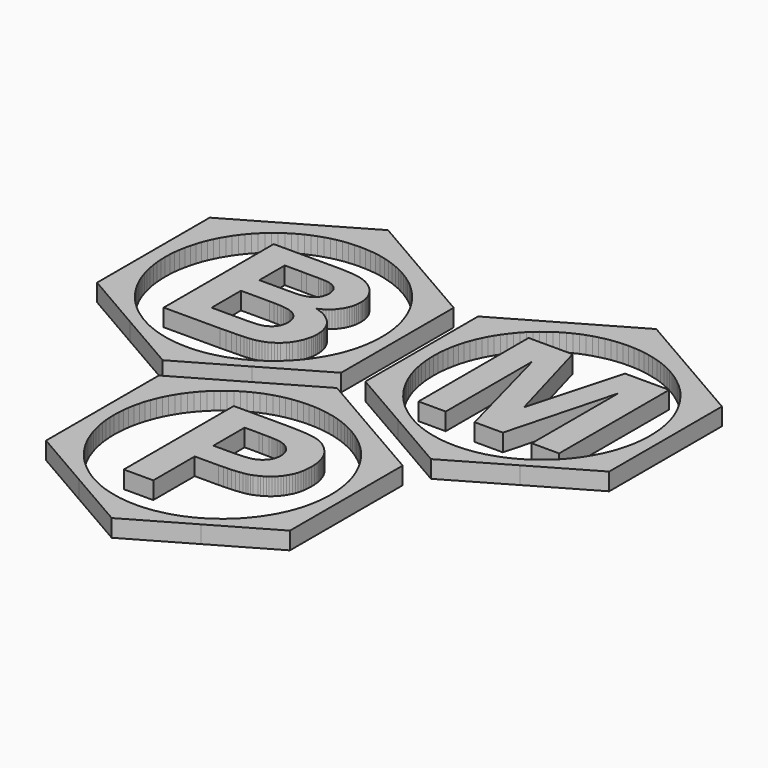
from build123d import *

# Parameters (mm, degrees)
F1_DEPTH = 5


with BuildPart() as f1:
    # F0 (on Top) → F1 (new body)
    with BuildSketch(Plane.XY):
        Polygon((56.125838, 64.001045), (38.57652, 74.114889), (21.027202, 64.001045), (3.477883, 53.887201), (3.477883, 33.619537), (3.477883, 13.351873), (21.027202, 3.238029), (38.57652, -6.915791), (56.125838, 3.238029), (73.635181, 13.351873), (73.635181, 33.619537), (73.635181, 53.887201), align=None)
        Polygon((37.177372, 63.801167), (38.776398, 63.841142), (40.375425, 63.801167), (41.974452, 63.68124), (43.533503, 63.481361), (45.052578, 63.201532), (46.571654, 62.841751), (48.050753, 62.441994), (49.489877, 61.962286), (50.889026, 61.402627), (52.288174, 60.763016), (53.607371, 60.083429), (54.926568, 59.323892), (56.165814, 58.524378), (57.40506, 57.644914), (58.564354, 56.725473), (59.723648, 55.766057), (60.802992, 54.72669), (61.842359, 53.647347), (62.801775, 52.488053), (63.721215, 51.328758), (64.60068, 50.089512), (65.400193, 48.850267), (66.159731, 47.53107), (66.839317, 46.211873), (67.478928, 44.812724), (68.038587, 43.413576), (68.518296, 41.974452), (68.918052, 40.495352), (69.277833, 38.976277), (69.557663, 37.457201), (69.757541, 35.89815), (69.877468, 34.299123), (69.917444, 32.700097), (69.877468, 31.10107), (69.757541, 29.502043), (69.557663, 27.942992), (69.277833, 26.423917), (68.918052, 24.904841), (68.518296, 23.425742), (68.038587, 21.986618), (67.478928, 20.587469), (66.839317, 19.188321), (66.159731, 17.869124), (65.400193, 16.549927), (64.60068, 15.270705), (63.721215, 14.071435), (62.801775, 12.872165), (61.842359, 11.752846), (60.802992, 10.673503), (59.723648, 9.634136), (58.564354, 8.67472), (57.40506, 7.75528), (56.165814, 6.875815), (54.926568, 6.076302), (53.607371, 5.316764), (52.288174, 4.637178), (50.889026, 3.997567), (49.489877, 3.437907), (48.050753, 2.958199), (46.571654, 2.518467), (45.052578, 2.198662), (43.533503, 1.918832), (41.974452, 1.718954), (40.375425, 1.599027), (38.776398, 1.559051), (37.177372, 1.599027), (35.578345, 1.718954), (34.019294, 1.918832), (32.500218, 2.198662), (30.981143, 2.518467), (29.502043, 2.958199), (28.062919, 3.437907), (26.663771, 3.997567), (25.264622, 4.637178), (23.945425, 5.316764), (22.626228, 6.076302), (21.347007, 6.875815), (20.147737, 7.75528), (18.948467, 8.67472), (17.829148, 9.634136), (16.749805, 10.673503), (15.710438, 11.752846), (14.751022, 12.872165), (13.831581, 14.071435), (12.952117, 15.270705), (12.152603, 16.549927), (11.393065, 17.869124), (10.713479, 19.188321), (10.073868, 20.587469), (9.514209, 21.986618), (9.034501, 23.425742), (8.594769, 24.904841), (8.274963, 26.423917), (7.995134, 27.942992), (7.795255, 29.502043), (7.675328, 31.10107), (7.635353, 32.700097), (7.675328, 34.299123), (7.795255, 35.89815), (7.995134, 37.457201), (8.274963, 38.976277), (8.594769, 40.495352), (9.034501, 41.974452), (9.514209, 43.413576), (10.073868, 44.812724), (10.713479, 46.211873), (11.393065, 47.53107), (12.152603, 48.850267), (12.952117, 50.089512), (13.831581, 51.328758), (14.751022, 52.488053), (15.710438, 53.647347), (16.749805, 54.72669), (17.829148, 55.766057), (18.948467, 56.725473), (20.147737, 57.644914), (21.347007, 58.524378), (22.626228, 59.323892), (23.945425, 60.083429), (25.264622, 60.763016), (26.663771, 61.402627), (28.062919, 61.962286), (29.502043, 62.441994), (30.981143, 62.841751), (32.500218, 63.201532), (34.019294, 63.481361), (35.578345, 63.68124), align=None, mode=Mode.SUBTRACT)
        Polygon((-20.987226, 63.881118), (-38.536544, 74.034938), (-56.085863, 63.881118), (-73.635181, 53.767274), (-73.635181, 33.49961), (-73.635181, 13.271922), (-56.085863, 3.118102), (-38.536544, -6.995742), (-20.987226, 3.118102), (-3.437907, 13.271922), (-3.437907, 33.49961), (-3.437907, 53.767274), align=None)
        Polygon((-39.935693, 63.68124), (-38.336666, 63.721215), (-36.737639, 63.68124), (-35.138612, 63.561313), (-33.579561, 63.40141), (-32.060486, 63.12158), (-30.541411, 62.761799), (-29.062311, 62.322067), (-27.623187, 61.842359), (-26.224038, 61.2827), (-24.82489, 60.683065), (-23.505693, 59.963502), (-22.186496, 59.24394), (-20.907275, 58.404451), (-19.708004, 57.564962), (-18.508734, 56.645522), (-17.389416, 55.64613), (-16.310073, 54.606763), (-15.270705, 53.52742), (-14.311289, 52.408101), (-13.391849, 51.248807), (-12.512384, 50.009561), (-11.712871, 48.73034), (-10.953333, 47.451118), (-10.273747, 46.091946), (-9.634136, 44.732773), (-9.074477, 43.293649), (-8.594769, 41.854525), (-8.155036, 40.375425), (-7.835231, 38.85635), (-7.555401, 37.337274), (-7.355523, 35.778223), (-7.235596, 34.219172), (-7.19562, 32.58017), (-7.235596, 30.981143), (-7.355523, 29.422092), (-7.555401, 27.863041), (-7.835231, 26.30399), (-8.155036, 24.82489), (-8.594769, 23.34579), (-9.074477, 21.906666), (-9.634136, 20.467542), (-10.273747, 19.108369), (-10.953333, 17.749197), (-11.712871, 16.469975), (-12.512384, 15.190754), (-13.391849, 13.951508), (-14.311289, 12.792214), (-15.270705, 11.672895), (-16.310073, 10.593552), (-17.389416, 9.554185), (-18.508734, 8.554793), (-19.708004, 7.635353), (-20.907275, 6.795864), (-22.186496, 5.956375), (-23.505693, 5.236813), (-24.82489, 4.517251), (-26.224038, 3.917615), (-27.623187, 3.357956), (-29.062311, 2.838272), (-30.541411, 2.438516), (-32.060486, 2.078735), (-33.579561, 1.798905), (-35.138612, 1.599027), (-36.737639, 1.4791), (-38.336666, 1.439124), (-39.935693, 1.4791), (-41.534719, 1.599027), (-43.09377, 1.798905), (-44.612846, 2.078735), (-46.131921, 2.438516), (-47.611021, 2.838272), (-49.050145, 3.357956), (-50.449293, 3.917615), (-51.848442, 4.517251), (-53.167639, 5.236813), (-54.486836, 5.956375), (-55.726082, 6.795864), (-56.965327, 7.635353), (-58.124622, 8.554793), (-59.283916, 9.554185), (-60.363259, 10.593552), (-61.402627, 11.672895), (-62.362043, 12.792214), (-63.281483, 13.951508), (-64.160948, 15.190754), (-64.960461, 16.469975), (-65.719999, 17.749197), (-66.399585, 19.108369), (-67.039196, 20.467542), (-67.598855, 21.906666), (-68.078563, 23.34579), (-68.47832, 24.82489), (-68.838101, 26.30399), (-69.117931, 27.863041), (-69.317809, 29.422092), (-69.437736, 30.981143), (-69.477712, 32.58017), (-69.437736, 34.219172), (-69.317809, 35.778223), (-69.117931, 37.337274), (-68.838101, 38.85635), (-68.47832, 40.375425), (-68.078563, 41.854525), (-67.598855, 43.293649), (-67.039196, 44.732773), (-66.399585, 46.091946), (-65.719999, 47.451118), (-64.960461, 48.73034), (-64.160948, 50.009561), (-63.281483, 51.248807), (-62.362043, 52.408101), (-61.402627, 53.52742), (-60.363259, 54.606763), (-59.283916, 55.64613), (-58.124622, 56.645522), (-56.965327, 57.564962), (-55.726082, 58.404451), (-54.486836, 59.24394), (-53.167639, 59.963502), (-51.848442, 60.683065), (-50.449293, 61.2827), (-49.050145, 61.842359), (-47.611021, 62.322067), (-46.131921, 62.761799), (-44.612846, 63.12158), (-43.09377, 63.40141), (-41.534719, 63.561313), align=None, mode=Mode.SUBTRACT)
        Polygon((18.029026, -3.238029), (0.479708, 6.915791), (-17.06961, -3.238029), (-34.578953, -13.351873), (-34.578953, -33.619537), (-34.578953, -53.887201), (-17.06961, -64.001045), (0.479708, -74.114889), (18.029026, -64.001045), (35.578345, -53.887201), (35.578345, -33.619537), (35.578345, -13.351873), align=None)
        Polygon((-0.91944, -3.437907), (0.679586, -3.397932), (2.278613, -3.437907), (3.87764, -3.557834), (5.436691, -3.757713), (6.955766, -4.037543), (8.474842, -4.357348), (9.953941, -4.79708), (11.393065, -5.276788), (12.792214, -5.836448), (14.191362, -6.476058), (15.550535, -7.155645), (16.829756, -7.915182), (18.108978, -8.714696), (19.308248, -9.59416), (20.507518, -10.513601), (21.626837, -11.473017), (22.70618, -12.512384), (23.745547, -13.591727), (24.704963, -14.711046), (25.624403, -15.910316), (26.503868, -17.109586), (27.303381, -18.388807), (28.062919, -19.708004), (28.742506, -21.027202), (29.382116, -22.42635), (29.941776, -23.825498), (30.421484, -25.264622), (30.861216, -26.743722), (31.181021, -28.262798), (31.460851, -29.781873), (31.660729, -31.340924), (31.780656, -32.939951), (31.820632, -34.538977), (31.780656, -36.138004), (31.660729, -37.697055), (31.460851, -39.256106), (31.181021, -40.815157), (30.861216, -42.294257), (30.421484, -43.773357), (29.941776, -45.252457), (29.382116, -46.651605), (28.742506, -48.050753), (28.062919, -49.36995), (27.303381, -50.689147), (26.503868, -51.928393), (25.624403, -53.167639), (24.704963, -54.326933), (23.745547, -55.486228), (22.70618, -56.565571), (21.626837, -57.564962), (20.507518, -58.564354), (19.308248, -59.483794), (18.108978, -60.363259), (16.829756, -61.162773), (15.550535, -61.92231), (14.191362, -62.601897), (12.792214, -63.241507), (11.393065, -63.801167), (9.953941, -64.280875), (8.474842, -64.680631), (6.955766, -65.040412), (5.436691, -65.320242), (3.87764, -65.52012), (2.278613, -65.640047), (0.679586, -65.680023), (-0.91944, -65.640047), (-2.478491, -65.52012), (-4.037543, -65.320242), (-5.596594, -65.040412), (-7.075693, -64.680631), (-8.554793, -64.280875), (-10.033893, -63.801167), (-11.433041, -63.241507), (-12.792214, -62.601897), (-14.151387, -61.92231), (-15.470584, -61.162773), (-16.709829, -60.363259), (-17.949075, -59.483794), (-19.108369, -58.564354), (-20.227688, -57.564962), (-21.347007, -56.565571), (-22.346399, -55.486228), (-23.34579, -54.326933), (-24.265231, -53.167639), (-25.144695, -51.928393), (-25.944209, -50.689147), (-26.703746, -49.36995), (-27.383333, -48.050753), (-28.022943, -46.651605), (-28.542627, -45.252457), (-29.062311, -43.773357), (-29.462068, -42.294257), (-29.821849, -40.815157), (-30.101678, -39.256106), (-30.301557, -37.697055), (-30.421484, -36.138004), (-30.461459, -34.538977), (-30.421484, -32.939951), (-30.301557, -31.340924), (-30.101678, -29.781873), (-29.821849, -28.262798), (-29.462068, -26.743722), (-29.062311, -25.264622), (-28.542627, -23.825498), (-28.022943, -22.42635), (-27.383333, -21.027202), (-26.703746, -19.708004), (-25.944209, -18.388807), (-25.144695, -17.109586), (-24.265231, -15.910316), (-23.34579, -14.711046), (-22.346399, -13.591727), (-21.347007, -12.512384), (-20.227688, -11.473017), (-19.108369, -10.513601), (-17.949075, -9.59416), (-16.709829, -8.714696), (-15.470584, -7.915182), (-14.151387, -7.155645), (-12.792214, -6.476058), (-11.433041, -5.836448), (-10.033893, -5.276788), (-8.554793, -4.79708), (-7.075693, -4.357348), (-5.596594, -4.037543), (-4.037543, -3.757713), (-2.478491, -3.557834), align=None, mode=Mode.SUBTRACT)
        Polygon((-37.65708, 52.687931), (-54.366909, 52.687931), (-54.366909, 13.151995), (-40.135571, 13.151995), (-38.176763, 13.151995), (-36.45781, 13.191971), (-34.898758, 13.231946), (-33.539586, 13.231946), (-32.340316, 13.271922), (-31.340924, 13.311898), (-30.541411, 13.351873), (-29.941776, 13.431825), (-29.102287, 13.511776), (-28.302773, 13.671679), (-27.543235, 13.871557), (-26.823673, 14.071435), (-26.144087, 14.311289), (-25.464501, 14.591119), (-24.82489, 14.9509), (-24.265231, 15.310681), (-23.705571, 15.710438), (-23.145912, 16.110194), (-22.666204, 16.589902), (-22.186496, 17.06961), (-21.746764, 17.589294), (-21.347007, 18.148953), (-20.987226, 18.748588), (-20.627445, 19.348223), (-20.30764, 20.02781), (-20.02781, 20.667421), (-19.827931, 21.307031), (-19.628053, 21.946642), (-19.46815, 22.626228), (-19.388199, 23.265839), (-19.308248, 23.945425), (-19.308248, 24.625012), (-19.348223, 25.464501), (-19.428175, 26.264014), (-19.588077, 27.063527), (-19.827931, 27.823065), (-20.107761, 28.542627), (-20.467542, 29.262189), (-20.867299, 29.941776), (-21.347007, 30.581386), (-21.906666, 31.181021), (-22.506301, 31.740681), (-23.145912, 32.260364), (-23.865474, 32.740072), (-24.625012, 33.179805), (-25.424525, 33.539586), (-26.30399, 33.859391), (-27.22343, 34.179196), (-26.583819, 34.459026), (-25.944209, 34.818807), (-25.344574, 35.178588), (-24.82489, 35.61832), (-24.305206, 36.058053), (-23.785523, 36.537761), (-23.34579, 37.09742), (-22.946034, 37.65708), (-22.546277, 38.216739), (-22.226472, 38.816374), (-21.986618, 39.455985), (-21.746764, 40.095595), (-21.586861, 40.735206), (-21.466934, 41.374817), (-21.386983, 42.054403), (-21.347007, 42.733989), (-21.386983, 43.3736), (-21.426958, 43.973235), (-21.546885, 44.612846), (-21.666812, 45.172505), (-21.866691, 45.732165), (-22.066569, 46.291824), (-22.346399, 46.851483), (-22.626228, 47.371167), (-22.986009, 47.850875), (-23.305815, 48.330583), (-23.705571, 48.810291), (-24.065352, 49.210048), (-24.505085, 49.609804), (-24.944817, 50.009561), (-25.384549, 50.329366), (-25.864257, 50.689147), (-26.343965, 50.968977), (-26.863649, 51.248807), (-27.383333, 51.488661), (-27.903016, 51.688539), (-28.462676, 51.888417), (-29.022335, 52.04832), (-29.62197, 52.208223), (-30.221605, 52.288174), (-30.861216, 52.408101), (-31.580778, 52.488053), (-32.420267, 52.528028), (-33.299732, 52.60798), (-34.259148, 52.647955), (-35.298515, 52.687931), (-36.417834, 52.687931), align=None)
        Polygon((-45.932043, 19.827931), (-45.932043, 30.381508), (-39.096204, 30.381508), (-37.697055, 30.381508), (-36.45781, 30.341532), (-35.338491, 30.301557), (-34.339099, 30.261581), (-33.459634, 30.18163), (-32.700097, 30.061703), (-32.100462, 29.941776), (-31.580778, 29.821849), (-31.181021, 29.661946), (-30.781265, 29.502043), (-30.421484, 29.302165), (-30.061703, 29.102287), (-29.741897, 28.862433), (-29.462068, 28.582603), (-29.182238, 28.302773), (-28.942384, 28.022943), (-28.742506, 27.703138), (-28.542627, 27.343357), (-28.382725, 27.023552), (-28.262798, 26.623795), (-28.182846, 26.264014), (-28.102895, 25.864257), (-28.062919, 25.424525), (-28.022943, 24.984793), (-28.062919, 24.465109), (-28.102895, 23.985401), (-28.182846, 23.545669), (-28.342749, 23.105936), (-28.502652, 22.70618), (-28.70253, 22.306423), (-28.942384, 21.946642), (-29.222214, 21.626837), (-29.542019, 21.347007), (-29.861824, 21.067177), (-30.221605, 20.827323), (-30.581386, 20.627445), (-30.981143, 20.427567), (-31.3809, 20.267664), (-31.820632, 20.147737), (-32.30034, 20.067785), (-33.099853, 19.947858), (-34.339099, 19.867907), (-36.018077, 19.827931), (-38.096812, 19.827931), align=None, mode=Mode.SUBTRACT)
        Polygon((-45.932043, 36.977493), (-45.932043, 46.131921), (-41.055011, 46.131921), (-39.655863, 46.091946), (-38.376642, 46.091946), (-37.257323, 46.091946), (-36.257931, 46.091946), (-35.458418, 46.05197), (-34.738856, 46.05197), (-34.219172, 46.011994), (-33.819415, 45.972019), (-33.339707, 45.892067), (-32.859999, 45.812116), (-32.380291, 45.652213), (-31.980535, 45.532286), (-31.620754, 45.332408), (-31.260973, 45.092554), (-30.941167, 44.8527), (-30.661338, 44.612846), (-30.381508, 44.293041), (-30.18163, 43.973235), (-29.981751, 43.65343), (-29.861824, 43.293649), (-29.741897, 42.893892), (-29.661946, 42.494135), (-29.581995, 42.054403), (-29.581995, 41.614671), (-29.62197, 41.134963), (-29.661946, 40.69523), (-29.741897, 40.295474), (-29.9018, 39.895717), (-30.061703, 39.49596), (-30.261581, 39.136179), (-30.541411, 38.816374), (-30.82124, 38.536544), (-31.141046, 38.256715), (-31.500827, 37.976885), (-31.900583, 37.777007), (-32.30034, 37.577128), (-32.740072, 37.417226), (-33.21978, 37.297299), (-33.699488, 37.177372), (-34.219172, 37.09742), (-34.578953, 37.057445), (-35.058661, 37.057445), (-35.658296, 37.017469), (-36.377858, 37.017469), (-37.177372, 36.977493), (-38.136788, 36.977493), (-39.216131, 36.977493), (-40.375425, 36.977493), align=None, mode=Mode.SUBTRACT)
        Polygon((-12.152603, -14.431216), (-12.152603, -53.967152), (-3.677761, -53.967152), (-3.677761, -39.056228), (1.798905, -39.056228), (3.198053, -39.056228), (4.517251, -39.016252), (5.756496, -38.976277), (6.875815, -38.936301), (7.955158, -38.85635), (8.914574, -38.736423), (9.794039, -38.616496), (10.593552, -38.496569), (11.153211, -38.376642), (11.712871, -38.216739), (12.232555, -38.016861), (12.792214, -37.777007), (13.351873, -37.537153), (13.871557, -37.257323), (14.431216, -36.977493), (14.9509, -36.617712), (15.510559, -36.257931), (15.990267, -35.858174), (16.469975, -35.418442), (16.949683, -34.938734), (17.389416, -34.41905), (17.789172, -33.899367), (18.148953, -33.339707), (18.508734, -32.700097), (18.868515, -32.100462), (19.148345, -31.420875), (19.388199, -30.701313), (19.588077, -29.941776), (19.74798, -29.182238), (19.827931, -28.342749), (19.907883, -27.50326), (19.947858, -26.583819), (19.907883, -25.464501), (19.787956, -24.345182), (19.708004, -23.825498), (19.588077, -23.305815), (19.46815, -22.786131), (19.308248, -22.306423), (19.148345, -21.826715), (18.988442, -21.386983), (18.788564, -20.94725), (18.54871, -20.507518), (18.348832, -20.067785), (18.069002, -19.668029), (17.789172, -19.268272), (17.509343, -18.908491), (16.869732, -18.188929), (16.230121, -17.549318), (15.510559, -16.949683), (14.790997, -16.43), (13.991484, -15.990267), (13.191971, -15.590511), (12.352482, -15.270705), (11.473017, -15.030851), (10.79343, -14.910924), (9.953941, -14.790997), (8.95455, -14.67107), (7.795255, -14.591119), (6.436083, -14.511168), (4.917007, -14.471192), (3.278005, -14.431216), (1.399148, -14.431216), align=None)
        Polygon((-3.677761, -32.340316), (-3.677761, -21.107153), (0.399757, -21.107153), (1.4791, -21.147129), (2.478491, -21.147129), (3.397932, -21.147129), (4.197445, -21.187104), (4.917007, -21.22708), (5.516642, -21.267056), (6.036326, -21.347007), (6.476058, -21.386983), (6.995742, -21.50691), (7.47545, -21.626837), (7.915182, -21.786739), (8.354915, -21.986618), (8.754671, -22.226472), (9.154428, -22.506301), (9.514209, -22.826107), (9.87399, -23.145912), (10.193795, -23.505693), (10.473625, -23.90545), (10.673503, -24.305206), (10.873382, -24.744939), (11.033284, -25.184671), (11.113236, -25.664379), (11.193187, -26.184063), (11.233163, -26.703746), (11.193187, -27.143479), (11.153211, -27.543235), (11.07326, -27.942992), (10.993309, -28.342749), (10.833406, -28.742506), (10.673503, -29.102287), (10.473625, -29.462068), (10.273747, -29.781873), (9.993917, -30.101678), (9.714087, -30.381508), (9.434258, -30.661338), (9.114452, -30.941167), (8.794647, -31.141046), (8.39489, -31.3809), (8.035109, -31.540802), (7.635353, -31.740681), (7.155645, -31.860608), (6.55601, -31.980535), (5.876423, -32.100462), (5.116886, -32.180413), (4.197445, -32.260364), (3.238029, -32.30034), (2.11871, -32.340316), (0.91944, -32.340316), align=None, mode=Mode.SUBTRACT)
        Polygon((18.868515, 52.807858), (18.868515, 13.231946), (26.703746, 13.231946), (26.703746, 44.372992), (35.018685, 13.231946), (43.133746, 13.231946), (51.448685, 44.372992), (51.448685, 13.231946), (59.323892, 13.231946), (59.323892, 52.807858), (46.611629, 52.807858), (39.136179, 25.824282), (31.540802, 52.807858), align=None)
    extrude(amount=F1_DEPTH)


solid = f1.part
